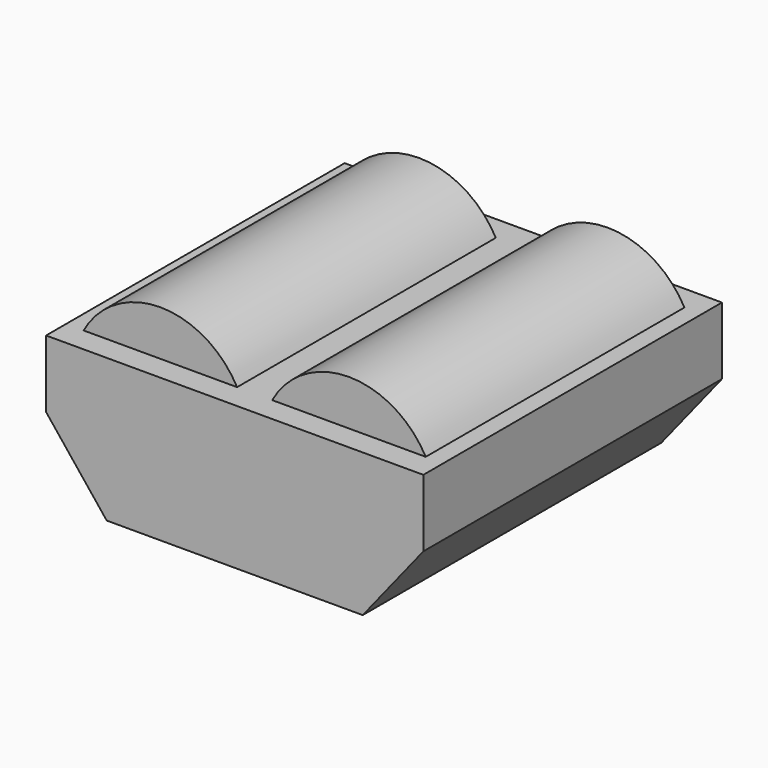
from build123d import *

# Parameters (mm, degrees)
F2_DEPTH = 35.179
F1_R     = 16.51
F3_DEPTH = 30.48
F5_DEPTH = 2


with BuildPart() as f2:
    # F0 (on Front) → F2 (new body, symmetric)
    with BuildSketch(Plane.XZ):
        Polygon((-35.56, 14.3), (-24.13, 0), (24.13, 0), (35.56, 14.3), (35.56, 27), (-35.56, 27), align=None)
    extrude(amount=F2_DEPTH, both=True)

    # F1 (on Front) → F3 (join, symmetric)
    with BuildSketch(Plane.XZ):
        with Locations((17.78, 19.05)):
            Circle(F1_R)
        with Locations((-17.78, 19.05)):
            Circle(F1_R)
    extrude(amount=F3_DEPTH, both=True)

    # F4 (on face) → F5 (cut)
    with BuildSketch(Plane(origin=(0, 0, 0), x_dir=(1, 0, 0), z_dir=(0, 0, -1))):
        with BuildLine():
            ThreePointArc((6.13, 23.179), (4.63, 24.679), (3.13, 23.179))
            Line((3.13, 23.179), (3.13, 20.179))
            ThreePointArc((3.13, 20.179), (4.63, 18.679), (6.13, 20.179))
            Line((6.13, 20.179), (6.13, 23.179))
        make_face()
        with BuildLine():
            ThreePointArc((-7.13, -22.179), (-8.63, -23.679), (-7.13, -25.179))
            Line((-7.13, -25.179), (-4.13, -25.179))
            ThreePointArc((-4.13, -25.179), (-2.63, -23.679), (-4.13, -22.179))
            Line((-4.13, -22.179), (-7.13, -22.179))
        make_face()
    extrude(amount=-F5_DEPTH, mode=Mode.SUBTRACT)


solid = f2.part
